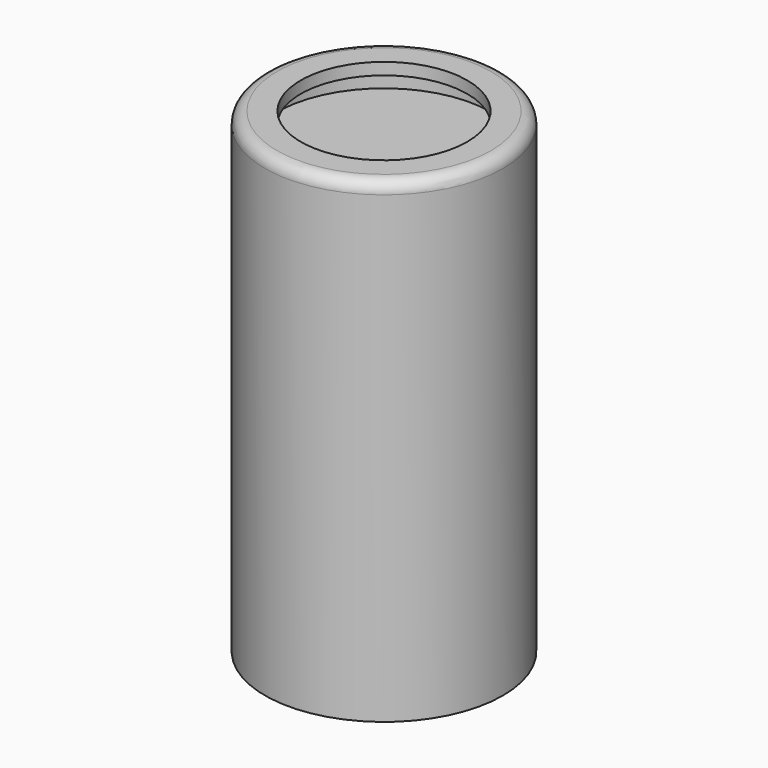
from build123d import *

# Parameters (mm, degrees)
SKETCH033_R     = 5
PAD018_DEPTH    = 20
SKETCH034_R     = 3.5
POCKET016_DEPTH = 0.5
SKETCH037_R     = 4.5
POCKET018_DEPTH = 1
FILLET003_R     = 0.5


with BuildPart() as part:
    # Sketch033 → Pad018 (new body)
    with BuildSketch(Plane.XY):
        Circle(SKETCH033_R)
    extrude(amount=PAD018_DEPTH)

    # Sketch034 (on Face3 of Pad018) → Pocket016 (cut)
    with BuildSketch(Plane.XY.offset(20)):
        Circle(SKETCH034_R)
    extrude(amount=-POCKET016_DEPTH, mode=Mode.SUBTRACT)

    # Sketch037 (on Face5 of Pocket016) → Pocket018 (cut)
    with BuildSketch(Plane.XY.offset(19.5)):
        Circle(SKETCH037_R)
    extrude(amount=-POCKET018_DEPTH, mode=Mode.SUBTRACT)

    # Fillet003
    fillet003_edges = [part.edges().sort_by_distance(p)[0] for p in [
        (-5, 0, 20),
    ]]
    fillet(fillet003_edges, radius=FILLET003_R)


solid = part.part
